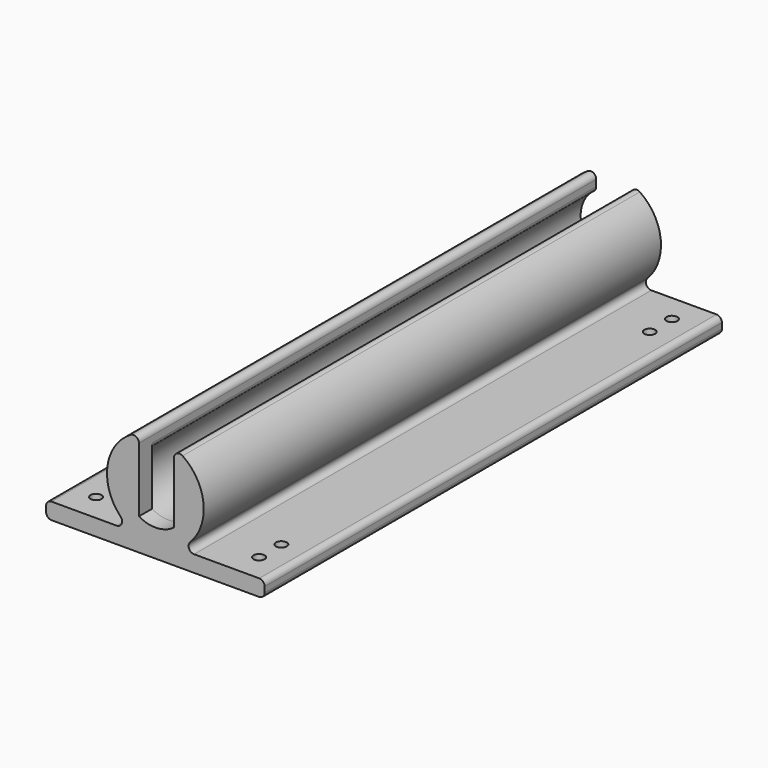
from build123d import *

# Parameters (mm, degrees)
F1_DEPTH = 101.6
F3_DEPTH = 3
F4_R     = 1
F5_DEPTH = 25.4
F6_R     = 1
F7_R     = 1


with BuildPart() as f1:
    # F0 (on Front) → F1 (new body)
    with BuildSketch(Plane.XZ):
        with BuildLine():
            ThreePointArc((3.4161663997, 4.7504878758), (-0.2489109402, -5.8459705159), (-3, 5.0236767341))
            Line((-3, 5.0236767341), (-3, 8.3273603964))
            ThreePointArc((-3, 8.3273603964), (-8.83136125, 0.5932871507), (-4.0868734277, -7.8512672071))
            Line((-4.0868734277, -7.8512672071), (-20, -7.8512672071))
            Line((-20, -7.8512672071), (-20, -10.8512672071))
            Line((-20, -10.8512672071), (20, -10.8512672071))
            Line((20, -10.8512672071), (20, -7.8512672071))
            Line((20, -7.8512672071), (4.0868734277, -7.8512672071))
            ThreePointArc((4.0868734277, -7.8512672071), (8.8435168288, 0.3703258964), (3.4161663997, 8.165460079))
            Line((3.4161663997, 8.165460079), (3.4161663997, 4.7504878758))
        make_face()
    extrude(amount=F1_DEPTH)

    # F2 (on face) → F3 (join)
    with BuildSketch(Plane.XZ.offset(101.6)):
        with BuildLine():
            Line((-3, -5.0236767341), (-3, 8.3273603964))
            ThreePointArc((-3, 8.3273603964), (-8.83136125, 0.5932871507), (-4.0868734277, -7.8512672071))
            Line((-4.0868734277, -7.8512672071), (-20, -7.8512672071))
            Line((-20, -7.8512672071), (-20, -10.8512672071))
            Line((-20, -10.8512672071), (20, -10.8512672071))
            Line((20, -10.8512672071), (20, -7.8512672071))
            Line((20, -7.8512672071), (4.0868734277, -7.8512672071))
            ThreePointArc((4.0868734277, -7.8512672071), (8.8435168288, 0.3703258964), (3.4161663997, 8.165460079))
            Line((3.4161663997, 8.165460079), (3.4161663997, -4.7504878758))
            ThreePointArc((3.4161663997, -4.7504878758), (0.2489109402, -5.8459705159), (-3, -5.0236767341))
        make_face()
    extrude(amount=F3_DEPTH)

    # F4 (on Top) → F5 (cut)
    with BuildSketch(Plane.XY):
        with Locations((-14.92, -5.08)):
            Circle(F4_R)
        with Locations((-14.92, -10.16)):
            Circle(F4_R)
        with Locations((-14.92, -99.52)):
            Circle(F4_R)
        with Locations((-14.92, -94.44)):
            Circle(F4_R)
        with Locations((14.92, -99.52)):
            Circle(F4_R)
        with Locations((14.92, -94.44)):
            Circle(F4_R)
        with Locations((14.92, -10.16)):
            Circle(F4_R)
        with Locations((14.92, -5.08)):
            Circle(F4_R)
    extrude(amount=-F5_DEPTH, mode=Mode.SUBTRACT)

    # F6
    f6_edges = [f1.edges().sort_by_distance(p)[0] for p in [
        (-3, -52.3, 8.32736),
        (3.416166, -52.3, 8.16546),
        (-3, -50.8, 5.023677),
        (3.416166, -50.8, 4.750488),
    ]]
    fillet(f6_edges, radius=F6_R)

    # F7
    f7_edges = [f1.edges().sort_by_distance(p)[0] for p in [
        (20, -52.3, -7.851267),
        (20, -52.3, -10.851267),
        (-20, -52.3, -7.851267),
        (-20, -52.3, -10.851267),
        (4.086873, -52.3, -7.851267),
        (-4.086873, -52.3, -7.851267),
    ]]
    fillet(f7_edges, radius=F7_R)


solid = f1.part
